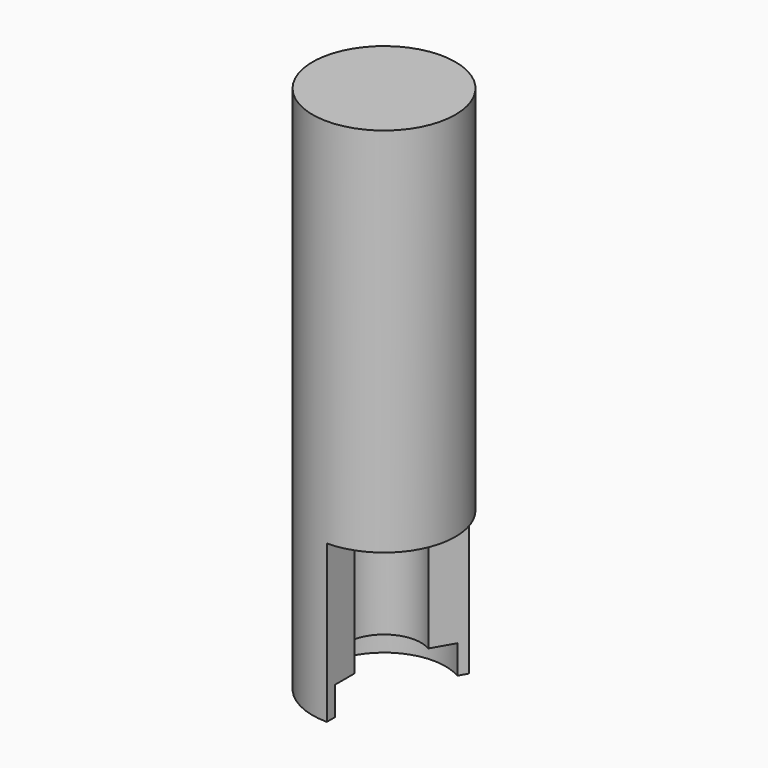
from build123d import *

# Parameters (mm, degrees)
F0_R     = 5
F1_DEPTH = 37
F2_R     = 4.3
F3_DEPTH = 2
F4_R     = 2.6
F5_DEPTH = 15
F7_DEPTH = 11


with BuildPart() as f1:
    # F0 (on Top) → F1 (new body)
    with BuildSketch(Plane.XY):
        Circle(F0_R)
    extrude(amount=F1_DEPTH)

    # F2 (on face) → F3 (cut)
    with BuildSketch(Plane(origin=(0, 0, 0), x_dir=(1, 0, 0), z_dir=(0, 0, -1))):
        Circle(F2_R)
    extrude(amount=-F3_DEPTH, mode=Mode.SUBTRACT)

    # F4 (on face) → F5 (cut)
    with BuildSketch(Plane(origin=(0, 0, 2), x_dir=(1, 0, 0), z_dir=(0, 0, -1))):
        Circle(F4_R)
    extrude(amount=-F5_DEPTH, mode=Mode.SUBTRACT)

    # F6 (on face) → F7 (cut)
    with BuildSketch(Plane(origin=(0, 0, 0), x_dir=(1, 0, 0), z_dir=(0, 0, -1))):
        with BuildLine():
            Line((0, 5), (0, 0))
            Line((0, 0), (2.5, -4.330127))
            ThreePointArc((2.5, -4.330127), (4.829629, 1.294095), (0, 5))
        make_face()
    extrude(amount=-F7_DEPTH, mode=Mode.SUBTRACT)


solid = f1.part
